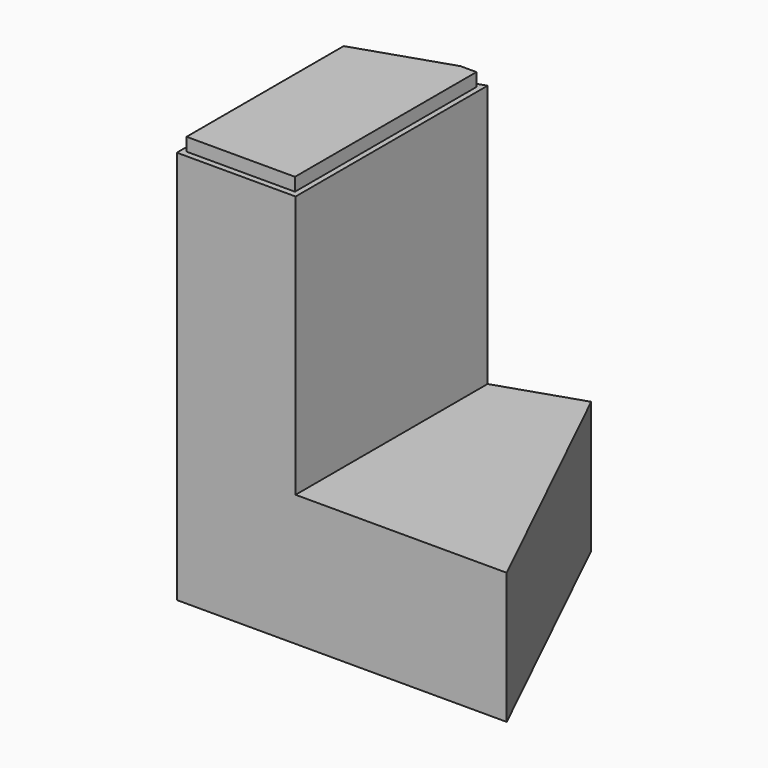
from build123d import *

# Parameters (mm, degrees)
F1_DEPTH = 152.4
F2_DEPTH = 50.8
F4_DEPTH = 5.08


with BuildPart() as f1:
    # F0 (on Top) → F1 (new body)
    with BuildSketch(Plane.XY):
        Polygon((-38.839806, 38.839806), (-38.839806, -38.839806), (7.116021, -38.839806), (7.116021, 54.005228), align=None)
    extrude(amount=F1_DEPTH)

    # F0 (on Top) → F2 (join)
    with BuildSketch(Plane.XY):
        Polygon((7.116021, 54.005228), (7.116021, -38.839806), (38.839806, -38.839806), (88.813685, -38.839806), (38.839806, 64.474076), align=None)
    extrude(amount=F2_DEPTH)

    # F3 (on face) → F4 (join)
    with BuildSketch(Plane.XY.offset(152.4)):
        Polygon((5.012183, -36.509417), (5.012183, 51.268544), (-1.17696, 51.268544), (-36.934808, 39.468455), (-36.934808, -36.509417), align=None)
    extrude(amount=F4_DEPTH)


solid = f1.part
